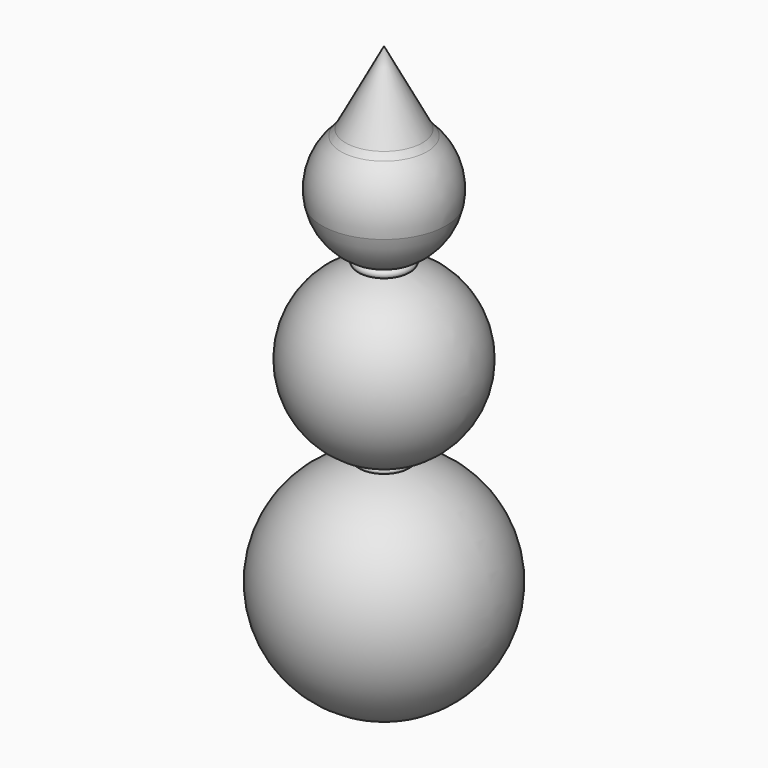
from build123d import *

# Parameters (mm, degrees)
F2_R = 5.08


with BuildPart() as f1:
    # F0 (on Front) → F1 (revolve)
    with BuildSketch(Plane.XZ):
        with BuildLine():
            Line((0, 38.1), (0, 0))
            ThreePointArc((0, 0), (2.5633111278, 0.1732434973), (5.08, 0.6898229856))
            ThreePointArc((5.08, 0.6898229856), (19.05, 19.05), (5.08, 37.4101770144))
            ThreePointArc((5.08, 37.4101770144), (2.5633111278, 37.9267565027), (0, 38.1))
        make_face()
        with BuildLine():
            ThreePointArc((5.08, -0.5407969613), (2.5543522346, -0.1355801349), (0, 0))
            Line((0, 0), (0, -48.26))
            ThreePointArc((0, -48.26), (23.9944198651, -26.6843522346), (5.08, -0.5407969613))
        make_face()
        with BuildLine():
            ThreePointArc((5.08, 0.6898229856), (2.5633111278, 0.1732434973), (0, 0))
            ThreePointArc((0, 0), (2.5543522346, -0.1355801349), (5.08, -0.5407969613))
            ThreePointArc((5.08, -0.5407969613), (5.6953099735, 0.0745130121), (5.08, 0.6898229856))
        make_face()
        with BuildLine():
            ThreePointArc((5.08, 39.0563725272), (2.5846203015, 38.3411749266), (0, 38.1))
            ThreePointArc((0, 38.1), (2.5633111278, 37.9267565027), (5.08, 37.4101770144))
            ThreePointArc((5.08, 37.4101770144), (5.9030977564, 38.2332747708), (5.08, 39.0563725272))
        make_face()
        with BuildLine():
            Line((0, 66.04), (0, 38.1))
            ThreePointArc((0, 38.1), (2.5846203015, 38.3411749266), (5.08, 39.0563725272))
            ThreePointArc((5.08, 39.0563725272), (10.7023622184, 43.091116832), (13.6984945154, 49.3291701965))
            ThreePointArc((13.6984945154, 49.3291701965), (13.1620009988, 56.7521607947), (8.89, 62.8463073453))
            ThreePointArc((8.89, 62.8463073453), (4.7231285387, 65.2173555062), (0, 66.04))
        make_face()
        with BuildLine():
            Line((0, 79.6947612803), (0, 66.04))
            ThreePointArc((0, 66.04), (4.7231285387, 65.2173555062), (8.89, 62.8463073453))
            Line((8.89, 62.8463073453), (0, 79.6947612803))
        make_face()
    revolve(axis=Axis((0, 0, 19.05), (0, 0, 1)))

    # F2
    f2_edges = [f1.edges().sort_by_distance(p)[0] for p in [
        (-8.89, 0, 62.846307),
    ]]
    fillet(f2_edges, radius=F2_R)


solid = f1.part
